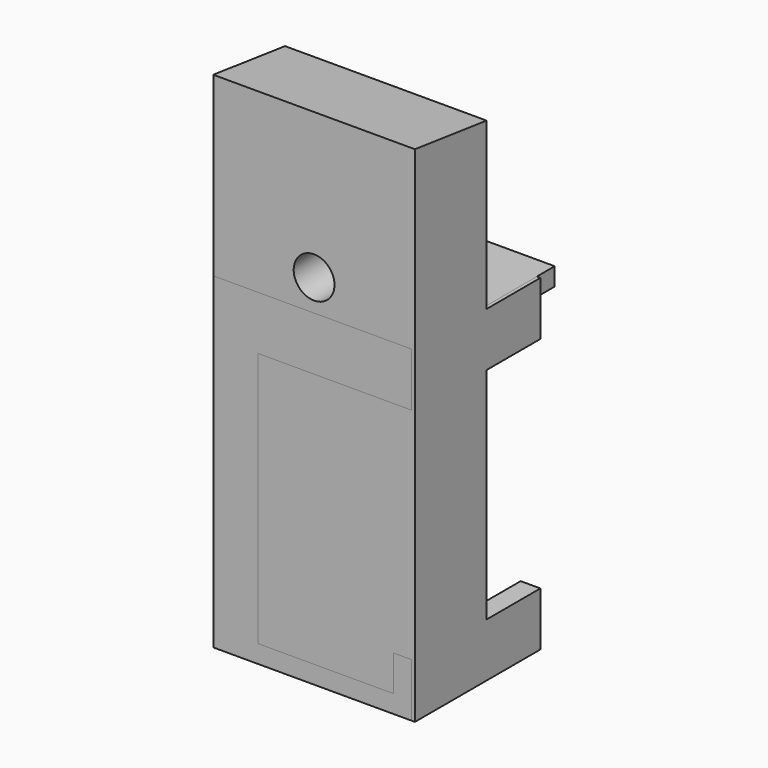
from build123d import *

# Parameters (mm, degrees)
SKETCH_W     = 45
SKETCH_H     = 20
PAD_DEPTH    = 110
PAD001_DEPTH = 45
SKETCH002_R  = 4.55
POCKET_DEPTH = 20
PAD002_DEPTH = 15
PAD003_DEPTH = 15
SKETCH005_W  = 10
SKETCH005_H  = 73
PAD004_DEPTH = 5
PAD005_DEPTH = 15
PAD006_DEPTH = 5
PAD007_DEPTH = 15
PAD008_DEPTH = 5
SKETCH008_W  = 44.2
SKETCH008_H  = 4
PAD009_DEPTH = 20
SKETCH009_W  = 30.2
SKETCH009_H  = 5
PAD010_DEPTH = 8


with BuildPart() as body:
    # Sketch → Pad (new body)
    with BuildSketch(Plane.XY):
        with Locations((22.5, 10)):
            Rectangle(SKETCH_W, SKETCH_H)
    extrude(amount=PAD_DEPTH)

    # Sketch001 (on Face2 of Pad) → Pad001 (join)
    with BuildSketch(Plane.YZ.offset(45)):
        Polygon((0, 110), (0, 112.5), (20, 110), align=None)
    extrude(amount=-PAD001_DEPTH)

    # Sketch002 (on Face6 of Pad001) → Pocket (cut)
    with BuildSketch(Plane.XZ):
        with Locations((22.5, 80)):
            Circle(SKETCH002_R)
    extrude(amount=-POCKET_DEPTH, mode=Mode.SUBTRACT)

    # Sketch003 (on Face1 of Pocket) → Pad002 (join)
    with BuildSketch(Plane(origin=(0, 20, 0), x_dir=(-1, 0, 0), z_dir=(0, 1, 0))):
        Polygon((-4.4, 4), (-40.6, 4), (-40.6, 12), (-45, 12), (-45, 0), (0, 0), (0, 12), (-4.4, 12), align=None)
    extrude(amount=PAD002_DEPTH)

    # Sketch004 (on Face1 of Pad002) → Pad003 (join)
    with BuildSketch(Plane(origin=(0, 20, 0), x_dir=(-1, 0, 0), z_dir=(0, 1, 0))):
        Polygon((0, 73), (-45, 73), (-45, 61), (-40.6, 61), (-40.6, 69), (-4.4, 69), (-4.4, 61), (0, 61), align=None)
    extrude(amount=PAD003_DEPTH)


with BuildPart() as batteryrearmotorholder001:
    # Sketch005 → Pad004 (new body)
    with BuildSketch(Plane.XZ):
        with Locations((5, 36.5)):
            Rectangle(SKETCH005_W, SKETCH005_H)
    extrude(amount=-PAD004_DEPTH)

    # Sketch006 (on Face6 of Pad004) → Pad005 (join)
    with BuildSketch(Plane(origin=(0, 5, 0), x_dir=(1, 0, 0), z_dir=(0, 1, 0))):
        Polygon((0, 0), (10, 0), (44.2, 0), (44.2, -12), (40.2, -12), (40.2, -4), (4, -4), (4, -12), (0, -12), align=None)
    extrude(amount=PAD005_DEPTH)

    # Sketch006 (on Face6 of Pad004) → Pad006 (join)
    with BuildSketch(Plane(origin=(0, 5, 0), x_dir=(1, 0, 0), z_dir=(0, 1, 0))):
        Polygon((0, 0), (10, 0), (44.2, 0), (44.2, -12), (40.2, -12), (40.2, -4), (4, -4), (4, -12), (0, -12), align=None)
    extrude(amount=-PAD006_DEPTH)

    # Sketch007 (on Face6 of Pad004) → Pad007 (join)
    with BuildSketch(Plane(origin=(0, 5, 0), x_dir=(1, 0, 0), z_dir=(0, 1, 0))):
        Polygon((0, -73), (0, -61), (4, -61), (4, -69), (40.2, -69), (40.2, -61), (44.2, -61), (44.2, -73), align=None)
    extrude(amount=PAD007_DEPTH)

    # Sketch007 (on Face6 of Pad004) → Pad008 (join)
    with BuildSketch(Plane(origin=(0, 5, 0), x_dir=(1, 0, 0), z_dir=(0, 1, 0))):
        Polygon((0, -73), (0, -61), (4, -61), (4, -69), (40.2, -69), (40.2, -61), (44.2, -61), (44.2, -73), align=None)
    extrude(amount=-PAD008_DEPTH)

    # Sketch008 (on Face33 of Pad008) → Pad009 (join)
    with BuildSketch(Plane(origin=(0, 20, 0), x_dir=(1, 0, 0), z_dir=(0, 1, 0))):
        with Locations((22.1, -71)):
            Rectangle(SKETCH008_W, SKETCH008_H)
    extrude(amount=PAD009_DEPTH)

    # Sketch009 (on Face32 of Pad009) → Pad010 (join)
    with BuildSketch(Plane(origin=(0, 0, 69), x_dir=(1, 0, 0), z_dir=(0, 0, -1))):
        with Locations((25.1, -2.5)):
            Rectangle(SKETCH009_W, SKETCH009_H)
    extrude(amount=PAD010_DEPTH)


solid = Compound([body.part, batteryrearmotorholder001.part])
